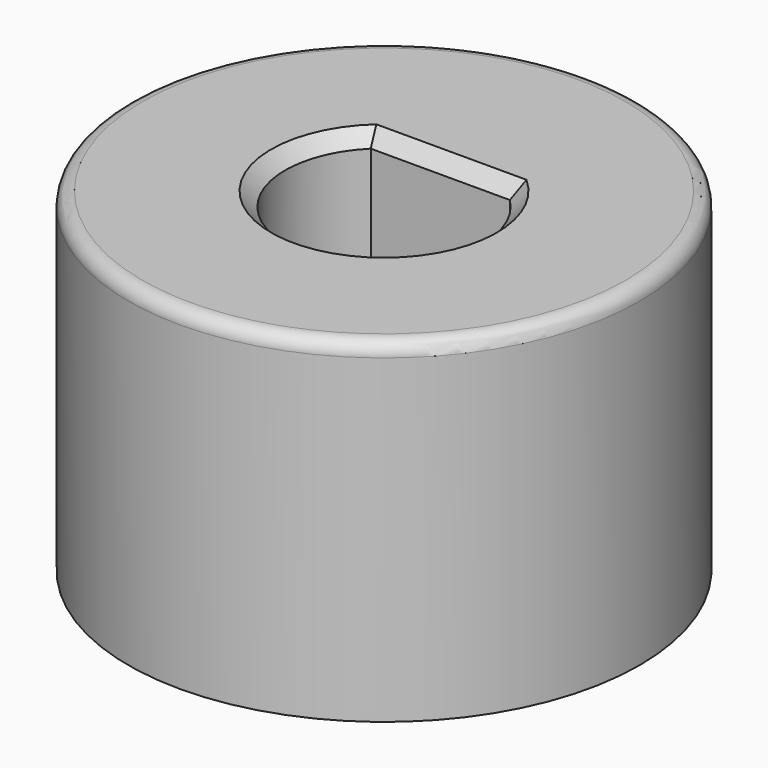
from build123d import *

# Parameters (mm, degrees)
F0_R     = 18.35
F0_R_2   = 7.1
F1_DEPTH = 24
F3_DEPTH = 24
F4_SIZE  = 1
F5_SIZE2 = 1
F5_SIZE  = 1
F6_R     = 1


with BuildPart() as f1:
    # F0 (on Top) → F1 (new body)
    with BuildSketch(Plane.XY):
        Circle(F0_R)
        Circle(F0_R_2, mode=Mode.SUBTRACT)
    extrude(amount=F1_DEPTH)

    # F2 (on face) → F3 (join)
    with BuildSketch(Plane.XY.offset(24)):
        with BuildLine():
            ThreePointArc((4.9907414279, 5.05), (0, 7.1), (-4.9907414279, 5.05))
            Line((-4.9907414279, 5.05), (4.9907414279, 5.05))
        make_face()
    extrude(amount=-F3_DEPTH)

    # F4
    f4_edges = [f1.edges().sort_by_distance(p)[0] for p in [
        (0, 5.05, 24),
        (0, -7.1, 24),
    ]]
    chamfer(f4_edges, length=F4_SIZE)

    # F5
    f5_edges = [f1.edges().sort_by_distance(p)[0] for p in [
        (0, 5.05, 0),
        (0, -7.1, 0),
    ]]
    chamfer(f5_edges, length=F5_SIZE, length2=F5_SIZE2)

    # F6
    f6_edges = [f1.edges().sort_by_distance(p)[0] for p in [
        (-18.35, 0, 24),
    ]]
    fillet(f6_edges, radius=F6_R)


solid = f1.part
